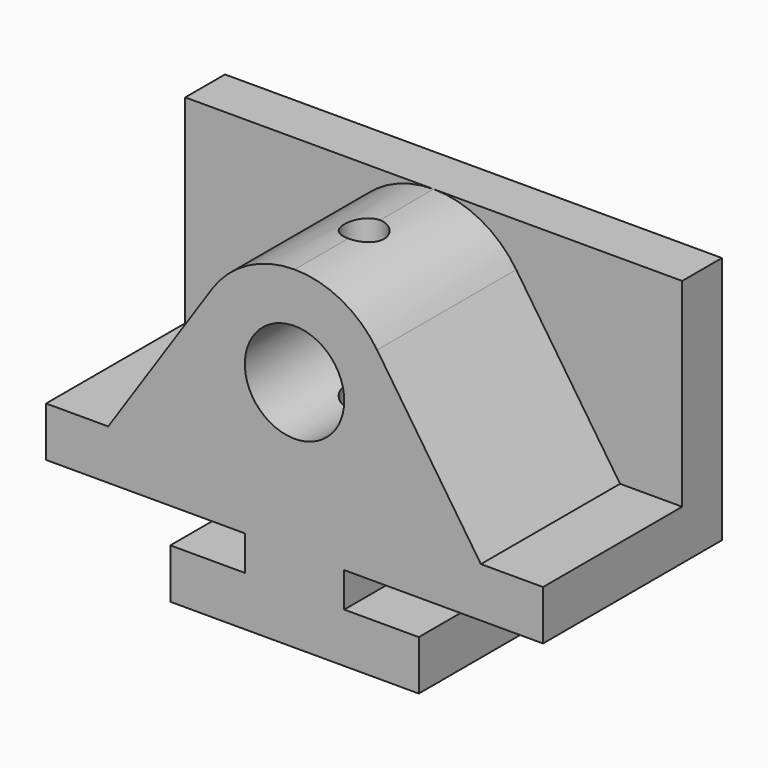
from build123d import *

# Parameters (mm, degrees)
F0_W     = 127
F0_H     = 57.15
F0_R     = 5.08
F1_DEPTH = 85.09
F3_DEPTH = 44.45
F4_R     = 12.7
F5_DEPTH = 57.151


with BuildPart() as f1:
    # F0 (on Top) → F1 (new body)
    with BuildSketch(Plane.XY):
        with Locations((63.5, 28.575)):
            Rectangle(F0_W, F0_H)
        with Locations((63.5, 22.225)):
            Circle(F0_R, mode=Mode.SUBTRACT)
    extrude(amount=F1_DEPTH)

    # F2 (on face) → F3 (cut)
    with BuildSketch(Plane.XZ):
        with BuildLine():
            Line((0, 85.09), (0, 34.29))
            Line((0, 34.29), (15.875, 34.29))
            Line((15.875, 34.29), (42.406574, 73.840173))
            ThreePointArc((42.406574, 73.840173), (51.547059, 82.101765), (63.5, 85.09))
            Line((63.5, 85.09), (0, 85.09))
        make_face()
        with BuildLine():
            Line((127, 85.09), (63.5, 85.09))
            ThreePointArc((63.5, 85.09), (75.452941, 82.101765), (84.593426, 73.840173))
            Line((84.593426, 73.840173), (111.125, 34.29))
            Line((111.125, 34.29), (127, 34.29))
            Line((127, 34.29), (127, 85.09))
        make_face()
    extrude(amount=-F3_DEPTH, mode=Mode.SUBTRACT)

    # F4 (on face) → F5 (cut, through all)
    with BuildSketch(Plane.XZ):
        Polygon((31.75, 0), (31.75, 12.7), (50.8, 12.7), (50.8, 21.59), (0, 21.59), (0, 0), align=None)
        Polygon((95.25, 12.7), (95.25, 0), (127, 0), (127, 21.59), (76.2, 21.59), (76.2, 12.7), align=None)
        with Locations((63.5, 59.69)):
            Circle(F4_R)
    extrude(amount=-F5_DEPTH, mode=Mode.SUBTRACT)


solid = f1.part
